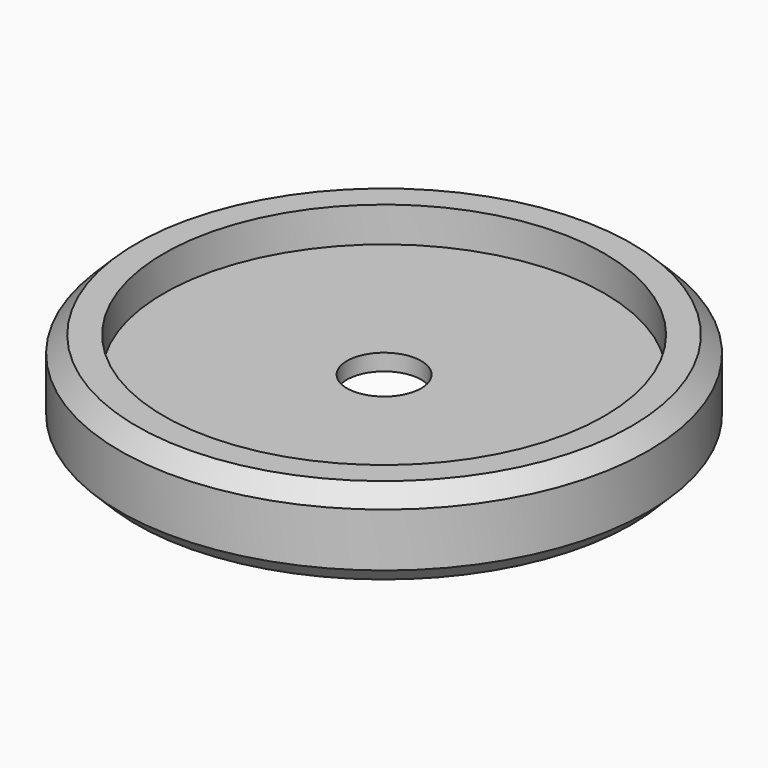
from build123d import *

# Parameters (mm, degrees)
CYLINDER006_R     = 26.7
CYLINDER006_DEPTH = 7.25
CYLINDER007_R     = 4.5
CYLINDER007_DEPTH = 32
CYLINDER005_R     = 26.7
CYLINDER005_DEPTH = 7.25
CYLINDER004_R     = 32
CYLINDER004_DEPTH = 6.5


with BuildPart() as cylinder006:
    # Cylinder006 → Cylinder006 (new body)
    with BuildSketch(Plane.XY.offset(7.75)):
        Circle(CYLINDER006_R)
    extrude(amount=CYLINDER006_DEPTH)


with BuildPart() as cylinder007:
    # Cylinder007 → Cylinder007 (new body)
    with BuildSketch(Plane.XY):
        Circle(CYLINDER007_R)
    extrude(amount=CYLINDER007_DEPTH)


with BuildPart() as fusion003:
    # Cylinder005 → Cylinder005 (new body)
    with BuildSketch(Plane.XY.offset(17)):
        Circle(CYLINDER005_R)
    extrude(amount=CYLINDER005_DEPTH)

    # Fusion003: union Cylinder006, Cylinder007
    add(cylinder006.part)
    add(cylinder007.part)


with BuildPart() as cone002:
    # Cone002 → Cone002 (revolve)
    with BuildSketch(Plane(origin=(0, 0, 8.5), x_dir=(1, 0, 0), z_dir=(0, -1, 0))):
        Polygon((0, 0), (32, 0), (30, 2), (0, 2), align=None)
    revolve(axis=Axis((0, 0, 8.5), (0, 0, 1)))


with BuildPart() as cone003:
    # Cone003 → Cone003 (revolve)
    with BuildSketch(Plane.XZ):
        Polygon((0, 0), (30, 0), (32, 2), (0, 2), align=None)
    revolve(axis=Axis((0, 0, 0), (0, 0, 1)))


with BuildPart() as cut:
    # Cylinder004 → Cylinder004 (new body)
    with BuildSketch(Plane.XY.offset(2)):
        Circle(CYLINDER004_R)
    extrude(amount=CYLINDER004_DEPTH)

    # Fusion002: union Cone002, Cone003
    add(cone002.part)
    add(cone003.part)


with BuildPart() as cut_1:
    # Fusion002 placement: moved
    add(cut.part.moved(Location((0, 0, 10.75))))

    # Cut: cut Fusion003
    add(fusion003.part, mode=Mode.SUBTRACT)


solid = cut_1.part
